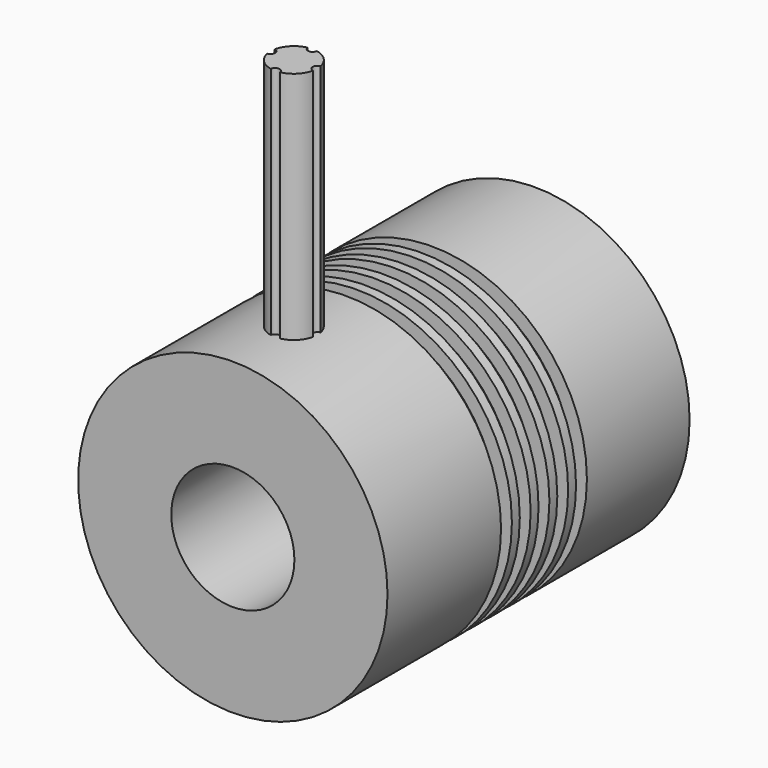
from build123d import *

# Parameters (mm, degrees)
F4_DEPTH = 50


with BuildPart() as f1:
    # F0 (on Top) → F1 (revolve)
    with BuildSketch(Plane.XY):
        Polygon((32.9958705818, 40.2742755358), (13.1345845242, 40.2742755358), (13.1345845242, -40.2742755358), (32.9958705818, -40.2742755358), (32.9958705818, -10), (30.1045414905, -10), (30.1045414905, -7.1086709088), (32.9958705818, -7.1086709088), (32.9958705818, -5), (30.1045414905, -5), (30.1045414905, -2.1086709088), (32.9958705818, -2.1086709088), (32.9958705818, 0), (30.1045414905, 0), (30.1045414905, 2.8913290912), (32.9958705818, 2.8913290912), (32.9958705818, 5), (30.1045414905, 5), (30.1045414905, 7.8913290912), (32.9958705818, 7.8913290912), (32.9958705818, 10), (30.1045414905, 10), (30.1045414905, 12.8913290912), (32.9958705818, 12.8913290912), align=None)
    revolve(axis=Axis((0, -1.4844276011, 0), (0, -1, 0)))


with BuildPart() as f4:
    # F3 (on offset) → F4 (new body)
    with BuildSketch(Plane.XY.offset(32.995)):
        with BuildLine():
            ThreePointArc((4.9, -24.9949874371), (4, -24), (4.9, -23.0050125629))
            ThreePointArc((4.9, -23.0050125629), (3.5355339059, -20.4644660941), (0.9949874371, -19.1))
            ThreePointArc((0.9949874371, -19.1), (0, -20), (-0.9949874371, -19.1))
            ThreePointArc((-0.9949874371, -19.1), (-3.5355339059, -20.4644660941), (-4.9, -23.0050125629))
            ThreePointArc((-4.9, -23.0050125629), (-4.2583801513, -23.3291796068), (-4, -24))
            ThreePointArc((-4, -24), (-4.2583801513, -24.6708203932), (-4.9, -24.9949874371))
            ThreePointArc((-4.9, -24.9949874371), (-3.5355339059, -27.5355339059), (-0.9949874371, -28.9))
            ThreePointArc((-0.9949874371, -28.9), (0, -28), (0.9949874371, -28.9))
            ThreePointArc((0.9949874371, -28.9), (3.5355339059, -27.5355339059), (4.9, -24.9949874371))
        make_face()
    extrude(amount=F4_DEPTH)


solid = Compound([f1.part, f4.part])
